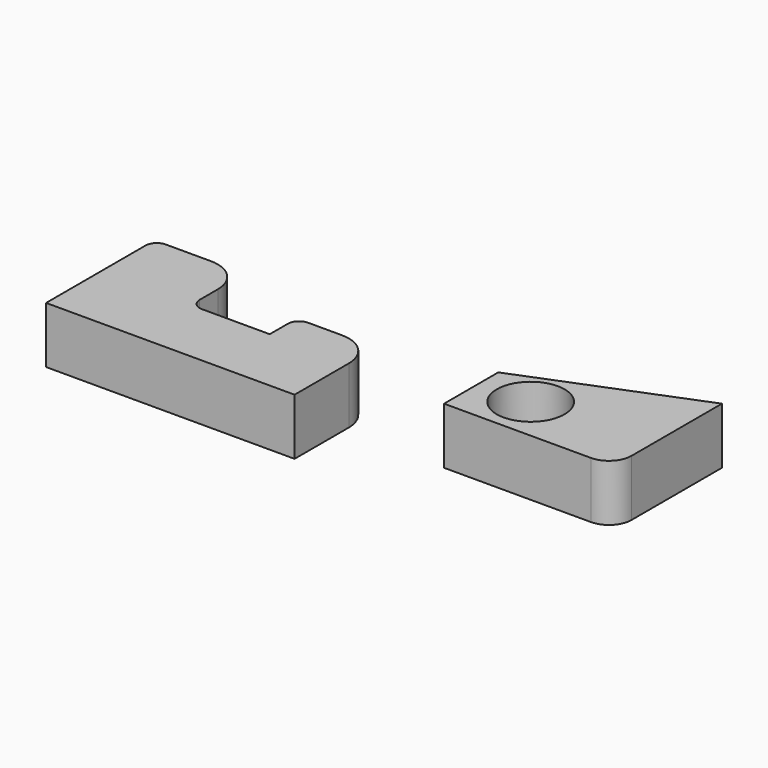
from build123d import *

# Parameters (mm, degrees)
F1_DEPTH = 25


with BuildPart() as f1:
    # F0 (on Top) → F1 (new body)
    with BuildSketch(Plane.XY):
        with BuildLine():
            Line((-99.181568, 10), (-99.181568, -45))
            Line((-99.181568, -45), (10.818432, -45))
            Line((10.818432, -45), (10.818432, -27.28576))
            Line((10.818432, -27.28576), (10.818432, -15))
            ThreePointArc((10.818432, -15), (6.425034, -4.393398), (-4.181568, 0))
            Line((-4.181568, 0), (-19.181568, 0))
            ThreePointArc((-19.181568, 0), (-22.717102, -1.464466), (-24.181568, -5))
            Line((-24.181568, -5), (-24.181568, -15))
            Line((-24.181568, -15), (-54.181568, -15))
            ThreePointArc((-54.181568, -15), (-57.717102, -13.535534), (-59.181568, -10))
            Line((-59.181568, -10), (-59.181568, 0))
            ThreePointArc((-59.181568, 0), (-63.574966, 10.606602), (-74.181568, 15))
            Line((-74.181568, 15), (-94.181568, 15))
            ThreePointArc((-94.181568, 15), (-97.717102, 13.535534), (-99.181568, 10))
        make_face()
        with BuildLine():
            ThreePointArc((92.848337, 1.844945), (77.848337, 16.844945), (62.848337, 1.844945))
            ThreePointArc((62.848337, 1.844945), (77.848337, -13.155055), (92.848337, 1.844945))
        make_face()
        with BuildLine():
            Line((55.348337, 1.844945), (55.348337, -17.963935))
            Line((55.348337, -17.963935), (77.848337, -17.963935))
            Line((77.848337, -17.963935), (120.348337, -17.963935))
            ThreePointArc((120.348337, -17.963935), (127.419405, -15.035003), (130.348337, -7.963935))
            Line((130.348337, -7.963935), (130.348337, 42.036065))
            Line((130.348337, 42.036065), (55.348337, 12.036065))
            Line((55.348337, 12.036065), (55.348337, 1.844945))
        make_face()
        with BuildLine():
            ThreePointArc((92.848337, 1.844945), (77.848337, -13.155055), (62.848337, 1.844945))
            ThreePointArc((62.848337, 1.844945), (77.848337, 16.844945), (92.848337, 1.844945))
        make_face(mode=Mode.SUBTRACT)
    extrude(amount=F1_DEPTH)


solid = f1.part
